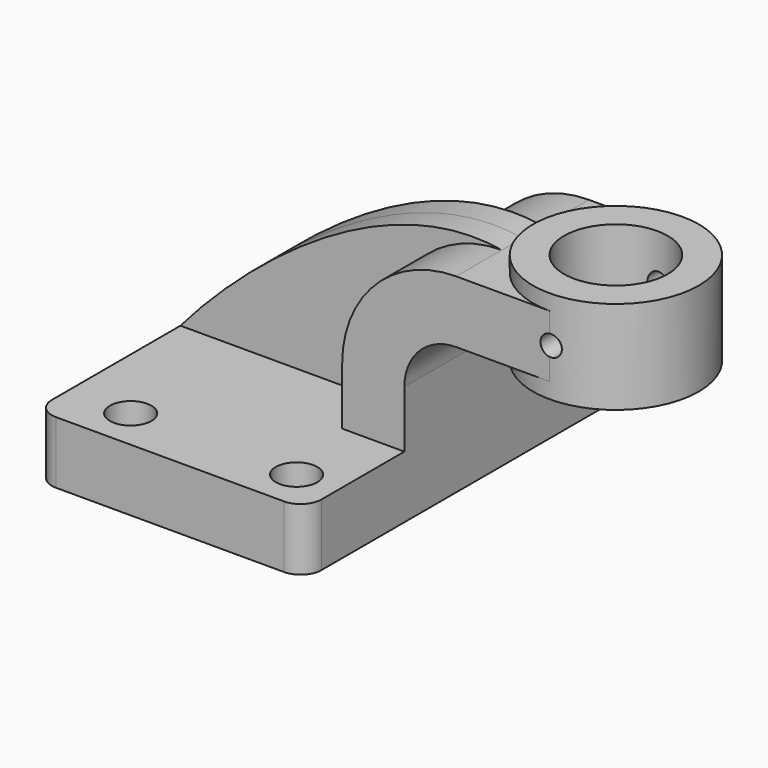
from build123d import *

# Parameters (mm, degrees)
F1_DEPTH  = 63.5
F0_W      = 25.4
F0_H      = 19.05
F2_DEPTH  = 25.4
F3_DEPTH  = 7.9375
F5_R      = 6.35
F6_R      = 15.875
F7_DEPTH  = 76.201
F8_R      = 6.35
F9_DEPTH  = 76.201
F10_R     = 3.175
F11_DEPTH = 31.75


with BuildPart() as f1:
    # F0 (on Front) → F1 (new body, symmetric)
    with BuildSketch(Plane.XZ):
        Polygon((-41.275, 9.525), (-41.275, -9.525), (41.275, -9.525), (41.275, 9.525), (22.225, 9.525), align=None)
    extrude(amount=F1_DEPTH, both=True)

    # F0 (on Front) → F2 (join, symmetric)
    with BuildSketch(Plane.XZ):
        with BuildLine():
            Line((22.225, 9.525), (41.275, 9.525))
            Line((41.275, 9.525), (41.275, 27.0002))
            ThreePointArc((41.275, 27.0002), (45.9246798487, 38.2255201513), (57.15, 42.8752))
            Line((57.15, 42.8752), (60.325, 42.8752))
            Line((60.325, 42.8752), (60.325, 61.9252))
            Line((60.325, 61.9252), (57.15, 61.9252))
            ThreePointArc((57.15, 61.9252), (32.4542956671, 51.6959043329), (22.225, 27.0002))
            Line((22.225, 27.0002), (22.225, 9.525))
        make_face()
        with Locations((73.025, 52.4002)):
            Rectangle(F0_W, F0_H)
    extrude(amount=F2_DEPTH, both=True)

    # F0 (on Front) → F3 (join, symmetric)
    with BuildSketch(Plane.XZ):
        with BuildLine():
            add(Edge.make_bspline(
                [(-41.275, 9.525), (-19.3256400526, 35.1379215717), (21.5103253722, 67.9016634822), (57.15, 61.9252)],
                knots=[0, 0, 0, 0, 111.5045361635, 111.5045361635, 111.5045361635, 111.5045361635], degree=3))
            Line((-41.275, 9.525), (22.225, 9.525))
            Line((22.225, 9.525), (22.225, 27.0002))
            ThreePointArc((22.225, 27.0002), (32.4542956671, 51.6959043329), (57.15, 61.9252))
        make_face()
    extrude(amount=F3_DEPTH, both=True)

    # F0 (on Front) → F4 (revolve)
    with BuildSketch(Plane.XZ):
        Polygon((85.725, 66.675), (85.725, 61.9252), (85.725, 42.8752), (85.725, 38.1), (111.125, 38.1), (111.125, 66.675), align=None)
    revolve(axis=Axis((85.725, 0, 52.3875), (0, 0, 1)))

    # F5
    f5_edges = [f1.edges().sort_by_distance(p)[0] for p in [
        (-41.275, -63.5, 0),
        (41.275, -63.5, 0),
        (41.275, 63.5, 0),
        (-41.275, 63.5, 0),
    ]]
    fillet(f5_edges, radius=F5_R)

    # F6 (on face) → F7 (cut, through all)
    with BuildSketch(Plane.XY.offset(66.675)):
        with Locations((85.725, 0)):
            Circle(F6_R)
    extrude(amount=-F7_DEPTH, mode=Mode.SUBTRACT)

    # F8 (on face) → F9 (cut, through all)
    with BuildSketch(Plane(origin=(0, 0, -9.525), x_dir=(1, 0, 0), z_dir=(0, 0, -1))):
        with Locations((28.575, 50.8)):
            Circle(F8_R)
        with Locations((-22.225, 50.8)):
            Circle(F8_R)
        with Locations((-22.225, -50.8)):
            Circle(F8_R)
        with Locations((28.575, -50.8)):
            Circle(F8_R)
    extrude(amount=-F9_DEPTH, mode=Mode.SUBTRACT)

    # F10 (on face) → F11 (cut, symmetric)
    with BuildSketch(Plane.XZ):
        with Locations((86.1288532615, 52.6647157967)):
            Circle(F10_R)
    extrude(amount=F11_DEPTH, both=True, mode=Mode.SUBTRACT)


solid = f1.part
